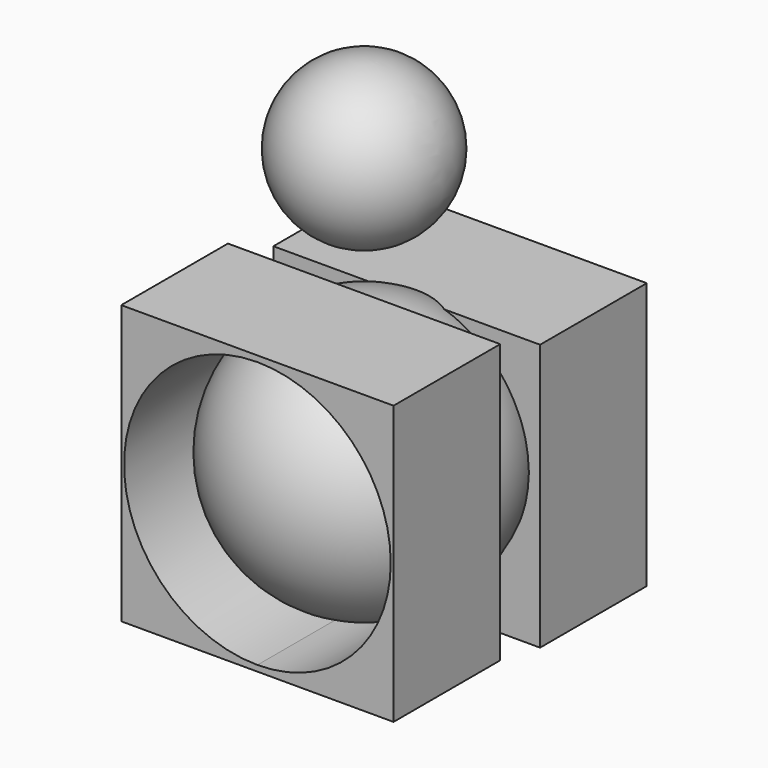
from build123d import *

# Parameters (mm, degrees)
F0_W      = 51.050145179
F0_H      = 52.1947704256
F2_DEPTH  = 25
F6_W      = 50
F6_H      = 50
F7_DEPTH  = 25
F8_R      = 15
F9_DEPTH  = 25
F10_DEPTH = 50


with BuildPart() as f1:
    # F0 (on Front) → F1 (revolve)
    with BuildSketch(Plane.XZ):
        with BuildLine():
            Line((0, -25), (0, 25))
            ThreePointArc((0, 25), (-25, 0), (0, -25))
        make_face()
    revolve(axis=Axis((0, 0, 0), (0, 0, -1)))


with BuildPart() as f2:
    # F0 (on Front) → F2 (new body)
    with BuildSketch(Plane.XZ):
        Rectangle(F0_W, F0_H)
        with BuildLine():
            ThreePointArc((0, 25), (17.6776695297, 17.6776695297), (25, 0))
            ThreePointArc((25, 0), (17.6776695297, -17.6776695297), (0, -25))
            ThreePointArc((0, -25), (-25, 0), (0, 25))
        make_face(mode=Mode.SUBTRACT)
    extrude(amount=F2_DEPTH)


with BuildPart() as f4:
    # F3 (on Front) → F4 (revolve)
    with BuildSketch(Plane.XZ):
        with BuildLine():
            ThreePointArc((0, 35.1029468172), (10.6066017178, 39.4963450994), (15, 50.1029468172))
            ThreePointArc((15, 50.1029468172), (10.6066017178, 60.709548535), (0, 65.1029468172))
            Line((0, 65.1029468172), (0, 35.1029468172))
        make_face()
    revolve(axis=Axis((0, 0, 50.1029468172), (0, 0, -1)))


with BuildPart() as f7:
    # F6 (on offset) → F7 (new body)
    with BuildSketch(Plane(origin=(0, 10, 0), x_dir=(-1, 0, 0), z_dir=(0, 1, 0))):
        with Locations((0, -3.2393227814)):
            Rectangle(F6_W, F6_H)
    extrude(amount=F7_DEPTH)

    # F8 (on face) → F9 (join)
    with BuildSketch(Plane(origin=(0, 35, 0), x_dir=(-1, 0, 0), z_dir=(0, 1, 0))):
        Circle(F8_R)
    extrude(amount=F9_DEPTH)

    # F10 (cut): a face of the model
    f10_faces = [f7.faces().sort_by_distance(p)[0] for p in [
        (0, 60, 0),
    ]]
    extrude(f10_faces, amount=-F10_DEPTH, mode=Mode.SUBTRACT)


solid = Compound([f1.part, f2.part, f4.part, f7.part])
